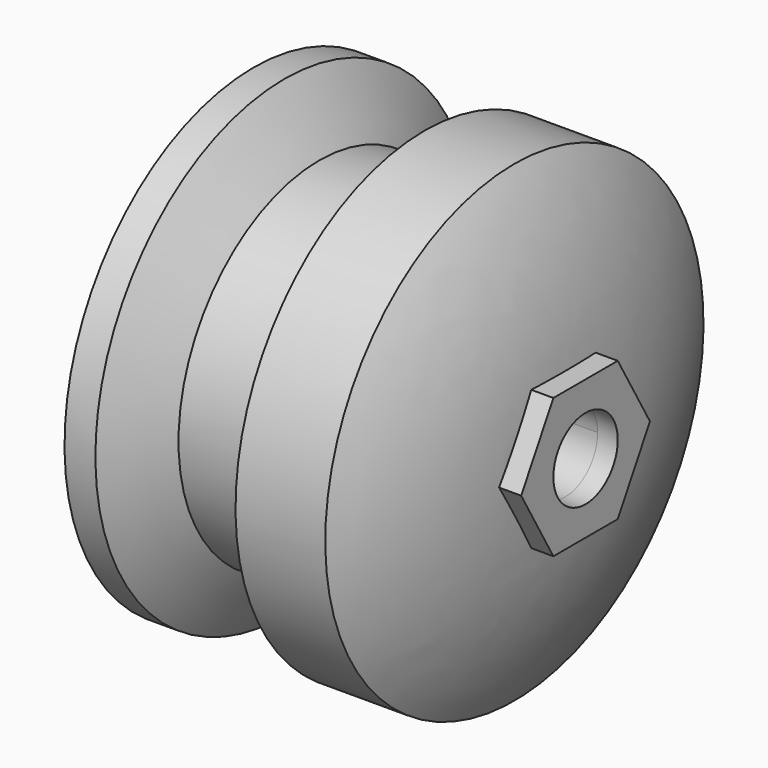
from build123d import *

# Parameters (mm, degrees)
F3_R     = 12.7
F4_DEPTH = 28.575


with BuildPart() as f1:
    # F0 (on Front) → F1 (revolve)
    with BuildSketch(Plane.XZ):
        with BuildLine():
            Line((9.752955, 74.6125), (0, 74.6125))
            Line((0, 74.6125), (0, 12.7))
            Line((0, 12.7), (98.425, 12.7))
            ThreePointArc((98.425, 12.7), (94.330656, 44.687492), (82.311619, 74.6125))
            Line((82.311619, 74.6125), (53.975, 74.6125))
            Line((53.975, 74.6125), (42.976477, 55.5625))
            Line((42.976477, 55.5625), (20.751477, 55.5625))
            Line((20.751477, 55.5625), (9.752955, 74.6125))
        make_face()
    revolve(axis=Axis((49.2125, 0, 0), (1, 0, 0)))

    # F3 (on offset) → F4 (join)
    with BuildSketch(Plane.YZ.offset(76.2)):
        Polygon((25.4, 0), (12.7, 21.997045), (-12.7, 21.997045), (-25.4, 0), (-12.7, -21.997045), (12.7, -21.997045), align=None)
        Circle(F3_R, mode=Mode.SUBTRACT)
    extrude(amount=F4_DEPTH)


solid = f1.part
